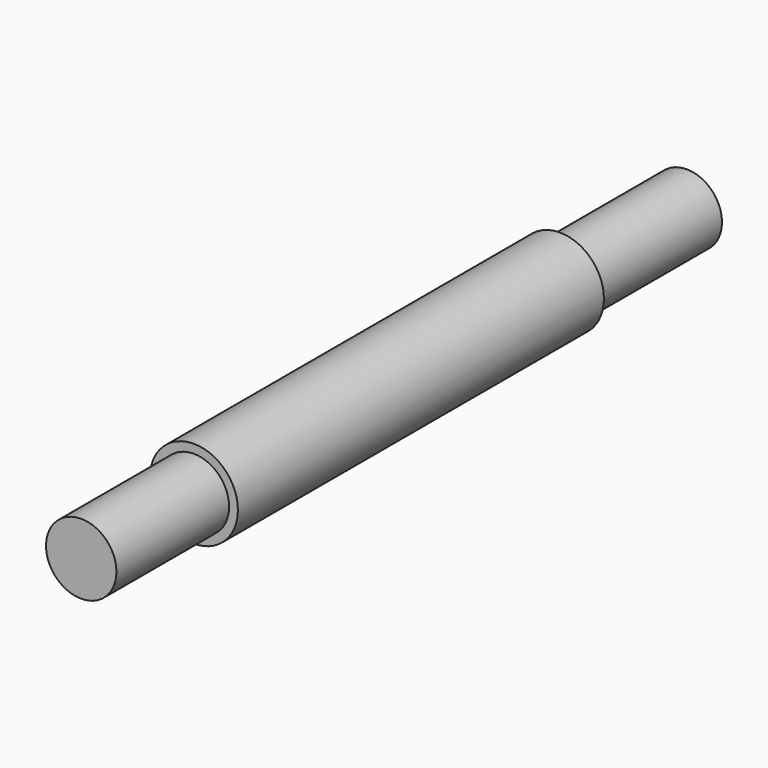
from build123d import *

# Parameters (mm, degrees)
F0_R     = 7.9375
F1_DEPTH = 136.525
F2_R     = 7.9375
F2_R_2   = 6.35
F3_DEPTH = 25.4
F4_R     = 7.9375
F4_R_2   = 6.35
F5_DEPTH = 28.6004


with BuildPart() as f1:
    # F0 (on Front) → F1 (new body)
    with BuildSketch(Plane.XZ):
        Circle(F0_R)
    extrude(amount=F1_DEPTH)

    # F2 (on face) → F3 (cut)
    with BuildSketch(Plane.XZ.offset(136.525)):
        Circle(F2_R)
        Circle(F2_R_2, mode=Mode.SUBTRACT)
    extrude(amount=-F3_DEPTH, mode=Mode.SUBTRACT)

    # F4 (on face) → F5 (cut)
    with BuildSketch(Plane(origin=(0, 0, 0), x_dir=(-1, 0, 0), z_dir=(0, 1, 0))):
        Circle(F4_R)
        Circle(F4_R_2, mode=Mode.SUBTRACT)
    extrude(amount=-F5_DEPTH, mode=Mode.SUBTRACT)


solid = f1.part
